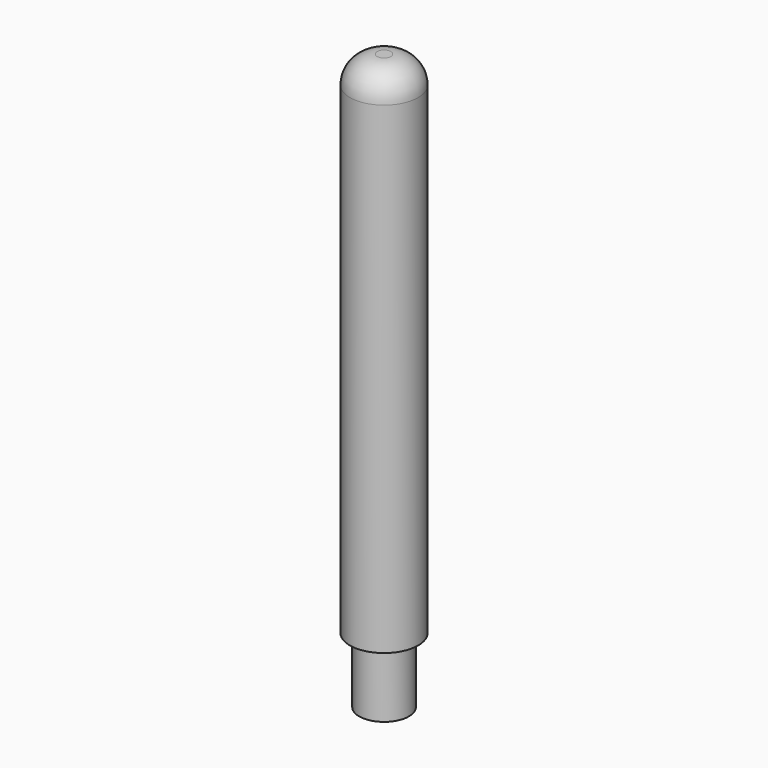
from build123d import *

# Parameters (mm, degrees)
F0_R     = 2.5
F1_DEPTH = 37.4
F2_R     = 2
F3_R     = 1.825
F4_DEPTH = 4.8


with BuildPart() as f1:
    # F0 (on Top) → F1 (new body)
    with BuildSketch(Plane.XY):
        Circle(F0_R)
    extrude(amount=F1_DEPTH)

    # F2
    f2_edges = [f1.edges().sort_by_distance(p)[0] for p in [
        (-2.5, 0, 37.4),
    ]]
    fillet(f2_edges, radius=F2_R)

    # F3 (on face) → F4 (join)
    with BuildSketch(Plane(origin=(0, 0, 0), x_dir=(1, 0, 0), z_dir=(0, 0, -1))):
        Circle(F3_R)
    extrude(amount=F4_DEPTH)


solid = f1.part
